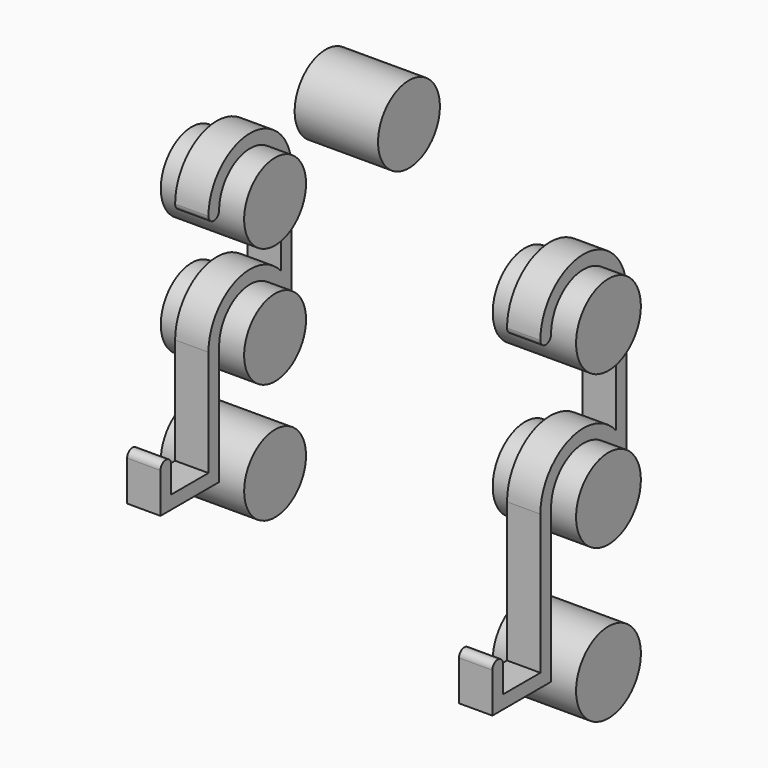
from build123d import *

# Parameters (mm, degrees)
F0_R     = 11.6
F1_DEPTH = 12.5
F3_DEPTH = 5
F4_DEPTH = 12.5
F7_DEPTH = 12.5
F8_DEPTH = 5


with BuildPart() as f1:
    # F0 (on Right) → F1 (new body, symmetric)
    with BuildSketch(Plane.YZ):
        Circle(F0_R)
    extrude(amount=F1_DEPTH, both=True)


with BuildPart() as f1b:
    # F0 (on Right) → F1, piece 2 (new body, symmetric)
    with BuildSketch(Plane.YZ):
        with Locations((0, -35.9)):
            Circle(F0_R)
    extrude(amount=F1_DEPTH, both=True)


with BuildPart() as f1c:
    # F0 (on Right) → F1, piece 3 (new body, symmetric)
    with BuildSketch(Plane.YZ):
        with Locations((50.2, 0)):
            Circle(F0_R)
    extrude(amount=F1_DEPTH, both=True)


with BuildPart() as f3:
    # F2 (on Right) → F3 (new body, symmetric)
    with BuildSketch(Plane.YZ):
        with BuildLine():
            ThreePointArc((-11.6, 0), (0, 11.6), (11.6, 0))
            Line((11.6, 0), (11.6, -25.4692761517))
            ThreePointArc((11.6, -25.4692761517), (-5.5856960175, -21.3342868352), (-15.6, -35.9))
            Line((-15.6, -35.9), (-15.6, -67.8))
            Line((-15.6, -67.8), (-29.6, -67.8))
            Line((-29.6, -67.8), (-29.6, -59.8))
            ThreePointArc((-29.6, -59.8), (-31.6, -57.8), (-33.6, -59.8))
            Line((-33.6, -59.8), (-33.6, -71.8))
            Line((-33.6, -71.8), (-11.6, -71.8))
            Line((-11.6, -71.8), (-11.6, -35.9))
            ThreePointArc((-11.6, -35.9), (0, -24.3), (11.6, -35.9))
            ThreePointArc((11.6, -35.9), (13.6, -37.9), (15.6, -35.9))
            Line((15.6, -35.9), (15.6, 0))
            ThreePointArc((15.6, 0), (0, 15.6), (-15.6, 0))
            ThreePointArc((-15.6, 0), (-13.6, -2), (-11.6, 0))
        make_face()
    extrude(amount=F3_DEPTH, both=True)


with BuildPart() as f4:
    # F2 (on Right) → F4 (new body, symmetric)
    with BuildSketch(Plane.YZ):
        with BuildLine():
            ThreePointArc((11.6, -71.8), (0, -60.2), (-11.6, -71.8))
            ThreePointArc((-11.6, -71.8), (0, -83.4), (11.6, -71.8))
        make_face()
    extrude(amount=F4_DEPTH, both=True)


with BuildPart() as f7:
    # F6 (on offset) → F7 (new body, symmetric)
    with BuildSketch(Plane.YZ.offset(100)):
        with BuildLine():
            ThreePointArc((-12.15, 0), (0, -12.15), (12.15, 0))
            ThreePointArc((12.15, 0), (0, 12.15), (-12.15, 0))
        make_face()
    extrude(amount=F7_DEPTH, both=True)


with BuildPart() as f7b:
    # F6 (on offset) → F7, piece 2 (new body, symmetric)
    with BuildSketch(Plane.YZ.offset(100)):
        with BuildLine():
            ThreePointArc((-12.15, -45.9), (0, -58.05), (12.15, -45.9))
            ThreePointArc((12.15, -45.9), (0, -33.75), (-12.15, -45.9))
        make_face()
    extrude(amount=F7_DEPTH, both=True)


with BuildPart() as f7c:
    # F6 (on offset) → F7, piece 3 (new body, symmetric)
    with BuildSketch(Plane.YZ.offset(100)):
        with BuildLine():
            ThreePointArc((12.15, -91.8), (0, -79.65), (-12.15, -91.8))
            ThreePointArc((-12.15, -91.8), (0, -103.95), (12.15, -91.8))
        make_face()
    extrude(amount=F7_DEPTH, both=True)


with BuildPart() as f8:
    # F6 (on offset) → F8 (new body, symmetric)
    with BuildSketch(Plane.YZ.offset(100)):
        with BuildLine():
            ThreePointArc((-12.15, 0), (0, 12.15), (12.15, 0))
            Line((12.15, 0), (12.15, -35.2604511374))
            ThreePointArc((12.15, -35.2604511374), (-5.6833088954, -30.7830393266), (-16.15, -45.9))
            Line((-16.15, -45.9), (-16.15, -87.8))
            Line((-16.15, -87.8), (-30.15, -87.8))
            Line((-30.15, -87.8), (-30.15, -79.8))
            ThreePointArc((-30.15, -79.8), (-32.15, -77.8), (-34.15, -79.8))
            Line((-34.15, -79.8), (-34.15, -91.8))
            Line((-34.15, -91.8), (-12.15, -91.8))
            Line((-12.15, -91.8), (-12.15, -45.9))
            ThreePointArc((-12.15, -45.9), (0, -33.75), (12.15, -45.9))
            ThreePointArc((12.15, -45.9), (14.15, -47.9), (16.15, -45.9))
            Line((16.15, -45.9), (16.15, 0))
            ThreePointArc((16.15, 0), (0, 16.15), (-16.15, 0))
            ThreePointArc((-16.15, 0), (-14.15, -2), (-12.15, 0))
        make_face()
    extrude(amount=F8_DEPTH, both=True)


solid = Compound([f1.part, f1b.part, f1c.part, f3.part, f4.part, f7.part, f7b.part, f7c.part, f8.part])
